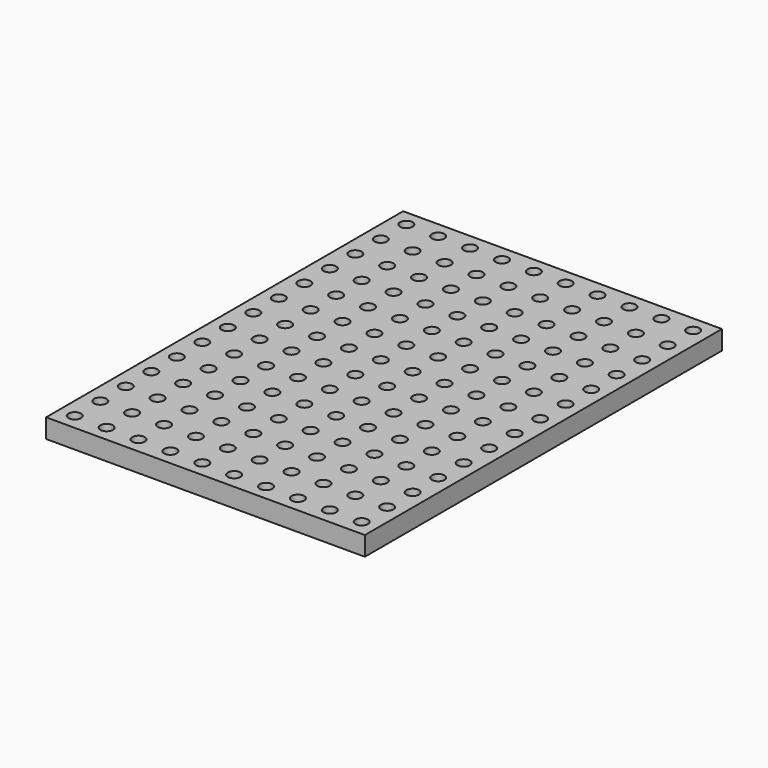
from build123d import *

# Parameters (mm, degrees)
F0_W     = 25.4
F0_H     = 35.56
F0_R     = 0.5
F1_DEPTH = 1.524


with BuildPart() as f1:
    # F0 (on Top) → F1 (new body)
    with BuildSketch(Plane.XY):
        with Locations((11.43, 16.51)):
            Rectangle(F0_W, F0_H)
        Circle(F0_R, mode=Mode.SUBTRACT)
        with Locations((0, 2.54)):
            Circle(F0_R, mode=Mode.SUBTRACT)
        with Locations((2.54, 0)):
            Circle(F0_R, mode=Mode.SUBTRACT)
        with Locations((5.08, 0)):
            Circle(F0_R, mode=Mode.SUBTRACT)
        with Locations((2.54, 2.54)):
            Circle(F0_R, mode=Mode.SUBTRACT)
        with Locations((5.08, 2.54)):
            Circle(F0_R, mode=Mode.SUBTRACT)
        with Locations((0, 5.08)):
            Circle(F0_R, mode=Mode.SUBTRACT)
        with Locations((0, 7.62)):
            Circle(F0_R, mode=Mode.SUBTRACT)
        with Locations((2.54, 5.08)):
            Circle(F0_R, mode=Mode.SUBTRACT)
        with Locations((5.08, 5.08)):
            Circle(F0_R, mode=Mode.SUBTRACT)
        with Locations((2.54, 7.62)):
            Circle(F0_R, mode=Mode.SUBTRACT)
        with Locations((5.08, 7.62)):
            Circle(F0_R, mode=Mode.SUBTRACT)
        with Locations((7.62, 0)):
            Circle(F0_R, mode=Mode.SUBTRACT)
        with Locations((7.62, 2.54)):
            Circle(F0_R, mode=Mode.SUBTRACT)
        with Locations((10.16, 0)):
            Circle(F0_R, mode=Mode.SUBTRACT)
        with Locations((10.16, 2.54)):
            Circle(F0_R, mode=Mode.SUBTRACT)
        with Locations((7.62, 5.08)):
            Circle(F0_R, mode=Mode.SUBTRACT)
        with Locations((7.62, 7.62)):
            Circle(F0_R, mode=Mode.SUBTRACT)
        with Locations((10.16, 5.08)):
            Circle(F0_R, mode=Mode.SUBTRACT)
        with Locations((10.16, 7.62)):
            Circle(F0_R, mode=Mode.SUBTRACT)
        with Locations((0, 10.16)):
            Circle(F0_R, mode=Mode.SUBTRACT)
        with Locations((2.54, 10.16)):
            Circle(F0_R, mode=Mode.SUBTRACT)
        with Locations((5.08, 10.16)):
            Circle(F0_R, mode=Mode.SUBTRACT)
        with Locations((0, 12.7)):
            Circle(F0_R, mode=Mode.SUBTRACT)
        with Locations((0, 15.24)):
            Circle(F0_R, mode=Mode.SUBTRACT)
        with Locations((2.54, 12.7)):
            Circle(F0_R, mode=Mode.SUBTRACT)
        with Locations((5.08, 12.7)):
            Circle(F0_R, mode=Mode.SUBTRACT)
        with Locations((2.54, 15.24)):
            Circle(F0_R, mode=Mode.SUBTRACT)
        with Locations((5.08, 15.24)):
            Circle(F0_R, mode=Mode.SUBTRACT)
        with Locations((7.62, 10.16)):
            Circle(F0_R, mode=Mode.SUBTRACT)
        with Locations((10.16, 10.16)):
            Circle(F0_R, mode=Mode.SUBTRACT)
        with Locations((7.62, 12.7)):
            Circle(F0_R, mode=Mode.SUBTRACT)
        with Locations((7.62, 15.24)):
            Circle(F0_R, mode=Mode.SUBTRACT)
        with Locations((10.16, 12.7)):
            Circle(F0_R, mode=Mode.SUBTRACT)
        with Locations((10.16, 15.24)):
            Circle(F0_R, mode=Mode.SUBTRACT)
        with Locations((12.7, 0)):
            Circle(F0_R, mode=Mode.SUBTRACT)
        with Locations((12.7, 2.54)):
            Circle(F0_R, mode=Mode.SUBTRACT)
        with Locations((15.24, 0)):
            Circle(F0_R, mode=Mode.SUBTRACT)
        with Locations((15.24, 2.54)):
            Circle(F0_R, mode=Mode.SUBTRACT)
        with Locations((12.7, 5.08)):
            Circle(F0_R, mode=Mode.SUBTRACT)
        with Locations((12.7, 7.62)):
            Circle(F0_R, mode=Mode.SUBTRACT)
        with Locations((15.24, 5.08)):
            Circle(F0_R, mode=Mode.SUBTRACT)
        with Locations((15.24, 7.62)):
            Circle(F0_R, mode=Mode.SUBTRACT)
        with Locations((17.78, 0)):
            Circle(F0_R, mode=Mode.SUBTRACT)
        with Locations((20.32, 0)):
            Circle(F0_R, mode=Mode.SUBTRACT)
        with Locations((17.78, 2.54)):
            Circle(F0_R, mode=Mode.SUBTRACT)
        with Locations((20.32, 2.54)):
            Circle(F0_R, mode=Mode.SUBTRACT)
        with Locations((22.86, 0)):
            Circle(F0_R, mode=Mode.SUBTRACT)
        with Locations((22.86, 2.54)):
            Circle(F0_R, mode=Mode.SUBTRACT)
        with Locations((17.78, 5.08)):
            Circle(F0_R, mode=Mode.SUBTRACT)
        with Locations((20.32, 5.08)):
            Circle(F0_R, mode=Mode.SUBTRACT)
        with Locations((17.78, 7.62)):
            Circle(F0_R, mode=Mode.SUBTRACT)
        with Locations((20.32, 7.62)):
            Circle(F0_R, mode=Mode.SUBTRACT)
        with Locations((22.86, 5.08)):
            Circle(F0_R, mode=Mode.SUBTRACT)
        with Locations((22.86, 7.62)):
            Circle(F0_R, mode=Mode.SUBTRACT)
        with Locations((12.7, 10.16)):
            Circle(F0_R, mode=Mode.SUBTRACT)
        with Locations((15.24, 10.16)):
            Circle(F0_R, mode=Mode.SUBTRACT)
        with Locations((12.7, 12.7)):
            Circle(F0_R, mode=Mode.SUBTRACT)
        with Locations((12.7, 15.24)):
            Circle(F0_R, mode=Mode.SUBTRACT)
        with Locations((15.24, 12.7)):
            Circle(F0_R, mode=Mode.SUBTRACT)
        with Locations((15.24, 15.24)):
            Circle(F0_R, mode=Mode.SUBTRACT)
        with Locations((17.78, 10.16)):
            Circle(F0_R, mode=Mode.SUBTRACT)
        with Locations((20.32, 10.16)):
            Circle(F0_R, mode=Mode.SUBTRACT)
        with Locations((22.86, 10.16)):
            Circle(F0_R, mode=Mode.SUBTRACT)
        with Locations((17.78, 12.7)):
            Circle(F0_R, mode=Mode.SUBTRACT)
        with Locations((20.32, 12.7)):
            Circle(F0_R, mode=Mode.SUBTRACT)
        with Locations((17.78, 15.24)):
            Circle(F0_R, mode=Mode.SUBTRACT)
        with Locations((20.32, 15.24)):
            Circle(F0_R, mode=Mode.SUBTRACT)
        with Locations((22.86, 12.7)):
            Circle(F0_R, mode=Mode.SUBTRACT)
        with Locations((22.86, 15.24)):
            Circle(F0_R, mode=Mode.SUBTRACT)
        with Locations((0, 17.78)):
            Circle(F0_R, mode=Mode.SUBTRACT)
        with Locations((0, 20.32)):
            Circle(F0_R, mode=Mode.SUBTRACT)
        with Locations((2.54, 17.78)):
            Circle(F0_R, mode=Mode.SUBTRACT)
        with Locations((5.08, 17.78)):
            Circle(F0_R, mode=Mode.SUBTRACT)
        with Locations((2.54, 20.32)):
            Circle(F0_R, mode=Mode.SUBTRACT)
        with Locations((5.08, 20.32)):
            Circle(F0_R, mode=Mode.SUBTRACT)
        with Locations((0, 22.86)):
            Circle(F0_R, mode=Mode.SUBTRACT)
        with Locations((0, 25.4)):
            Circle(F0_R, mode=Mode.SUBTRACT)
        with Locations((2.54, 22.86)):
            Circle(F0_R, mode=Mode.SUBTRACT)
        with Locations((5.08, 22.86)):
            Circle(F0_R, mode=Mode.SUBTRACT)
        with Locations((2.54, 25.4)):
            Circle(F0_R, mode=Mode.SUBTRACT)
        with Locations((5.08, 25.4)):
            Circle(F0_R, mode=Mode.SUBTRACT)
        with Locations((7.62, 17.78)):
            Circle(F0_R, mode=Mode.SUBTRACT)
        with Locations((7.62, 20.32)):
            Circle(F0_R, mode=Mode.SUBTRACT)
        with Locations((10.16, 17.78)):
            Circle(F0_R, mode=Mode.SUBTRACT)
        with Locations((10.16, 20.32)):
            Circle(F0_R, mode=Mode.SUBTRACT)
        with Locations((7.62, 22.86)):
            Circle(F0_R, mode=Mode.SUBTRACT)
        with Locations((7.62, 25.4)):
            Circle(F0_R, mode=Mode.SUBTRACT)
        with Locations((10.16, 22.86)):
            Circle(F0_R, mode=Mode.SUBTRACT)
        with Locations((10.16, 25.4)):
            Circle(F0_R, mode=Mode.SUBTRACT)
        with Locations((0, 27.94)):
            Circle(F0_R, mode=Mode.SUBTRACT)
        with Locations((2.54, 27.94)):
            Circle(F0_R, mode=Mode.SUBTRACT)
        with Locations((5.08, 27.94)):
            Circle(F0_R, mode=Mode.SUBTRACT)
        with Locations((0, 30.48)):
            Circle(F0_R, mode=Mode.SUBTRACT)
        with Locations((0, 33.02)):
            Circle(F0_R, mode=Mode.SUBTRACT)
        with Locations((2.54, 30.48)):
            Circle(F0_R, mode=Mode.SUBTRACT)
        with Locations((5.08, 30.48)):
            Circle(F0_R, mode=Mode.SUBTRACT)
        with Locations((2.54, 33.02)):
            Circle(F0_R, mode=Mode.SUBTRACT)
        with Locations((5.08, 33.02)):
            Circle(F0_R, mode=Mode.SUBTRACT)
        with Locations((7.62, 27.94)):
            Circle(F0_R, mode=Mode.SUBTRACT)
        with Locations((10.16, 27.94)):
            Circle(F0_R, mode=Mode.SUBTRACT)
        with Locations((7.62, 30.48)):
            Circle(F0_R, mode=Mode.SUBTRACT)
        with Locations((7.62, 33.02)):
            Circle(F0_R, mode=Mode.SUBTRACT)
        with Locations((10.16, 30.48)):
            Circle(F0_R, mode=Mode.SUBTRACT)
        with Locations((10.16, 33.02)):
            Circle(F0_R, mode=Mode.SUBTRACT)
        with Locations((12.7, 17.78)):
            Circle(F0_R, mode=Mode.SUBTRACT)
        with Locations((12.7, 20.32)):
            Circle(F0_R, mode=Mode.SUBTRACT)
        with Locations((15.24, 17.78)):
            Circle(F0_R, mode=Mode.SUBTRACT)
        with Locations((15.24, 20.32)):
            Circle(F0_R, mode=Mode.SUBTRACT)
        with Locations((12.7, 22.86)):
            Circle(F0_R, mode=Mode.SUBTRACT)
        with Locations((12.7, 25.4)):
            Circle(F0_R, mode=Mode.SUBTRACT)
        with Locations((15.24, 22.86)):
            Circle(F0_R, mode=Mode.SUBTRACT)
        with Locations((15.24, 25.4)):
            Circle(F0_R, mode=Mode.SUBTRACT)
        with Locations((17.78, 17.78)):
            Circle(F0_R, mode=Mode.SUBTRACT)
        with Locations((20.32, 17.78)):
            Circle(F0_R, mode=Mode.SUBTRACT)
        with Locations((17.78, 20.32)):
            Circle(F0_R, mode=Mode.SUBTRACT)
        with Locations((20.32, 20.32)):
            Circle(F0_R, mode=Mode.SUBTRACT)
        with Locations((22.86, 17.78)):
            Circle(F0_R, mode=Mode.SUBTRACT)
        with Locations((22.86, 20.32)):
            Circle(F0_R, mode=Mode.SUBTRACT)
        with Locations((17.78, 22.86)):
            Circle(F0_R, mode=Mode.SUBTRACT)
        with Locations((20.32, 22.86)):
            Circle(F0_R, mode=Mode.SUBTRACT)
        with Locations((17.78, 25.4)):
            Circle(F0_R, mode=Mode.SUBTRACT)
        with Locations((20.32, 25.4)):
            Circle(F0_R, mode=Mode.SUBTRACT)
        with Locations((22.86, 22.86)):
            Circle(F0_R, mode=Mode.SUBTRACT)
        with Locations((22.86, 25.4)):
            Circle(F0_R, mode=Mode.SUBTRACT)
        with Locations((12.7, 27.94)):
            Circle(F0_R, mode=Mode.SUBTRACT)
        with Locations((15.24, 27.94)):
            Circle(F0_R, mode=Mode.SUBTRACT)
        with Locations((12.7, 30.48)):
            Circle(F0_R, mode=Mode.SUBTRACT)
        with Locations((12.7, 33.02)):
            Circle(F0_R, mode=Mode.SUBTRACT)
        with Locations((15.24, 30.48)):
            Circle(F0_R, mode=Mode.SUBTRACT)
        with Locations((15.24, 33.02)):
            Circle(F0_R, mode=Mode.SUBTRACT)
        with Locations((17.78, 27.94)):
            Circle(F0_R, mode=Mode.SUBTRACT)
        with Locations((20.32, 27.94)):
            Circle(F0_R, mode=Mode.SUBTRACT)
        with Locations((22.86, 27.94)):
            Circle(F0_R, mode=Mode.SUBTRACT)
        with Locations((17.78, 30.48)):
            Circle(F0_R, mode=Mode.SUBTRACT)
        with Locations((20.32, 30.48)):
            Circle(F0_R, mode=Mode.SUBTRACT)
        with Locations((17.78, 33.02)):
            Circle(F0_R, mode=Mode.SUBTRACT)
        with Locations((20.32, 33.02)):
            Circle(F0_R, mode=Mode.SUBTRACT)
        with Locations((22.86, 30.48)):
            Circle(F0_R, mode=Mode.SUBTRACT)
        with Locations((22.86, 33.02)):
            Circle(F0_R, mode=Mode.SUBTRACT)
    extrude(amount=F1_DEPTH)


solid = f1.part
